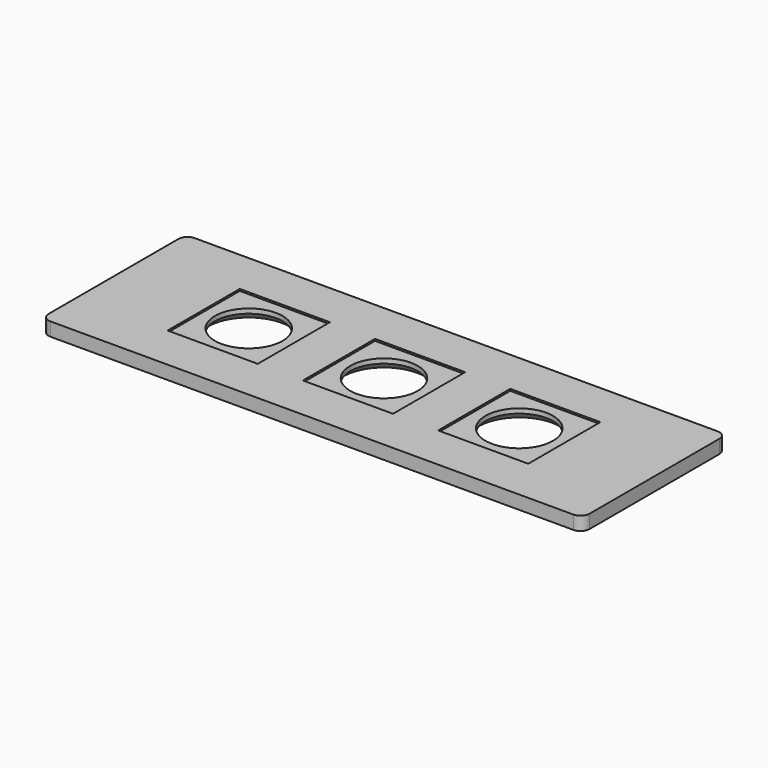
from build123d import *

# Parameters (mm, degrees)
SKETCH_W     = 76.2
SKETCH_H     = 25.4
SKETCH_R     = 4.7625
PAD_DEPTH    = 1.905
CHAMFER_SIZE = 1.000001
SKETCH001_W  = 12.7
SKETCH001_H  = 12.7
POCKET_DEPTH = 0.254
FILLET_R     = 1.27


with BuildPart() as part:
    # Sketch → Pad (new body)
    with BuildSketch(Plane.XY):
        Rectangle(SKETCH_W, SKETCH_H)
        Circle(SKETCH_R, mode=Mode.SUBTRACT)
        with Locations((-19.05, 0)):
            Circle(SKETCH_R, mode=Mode.SUBTRACT)
        with Locations((19.05, 0)):
            Circle(SKETCH_R, mode=Mode.SUBTRACT)
    extrude(amount=PAD_DEPTH)

    # Chamfer
    chamfer_edges = [part.edges().sort_by_distance(p)[0] for p in [
        (14.2875, 0, 0),
        (-4.7625, 0, 0),
        (-23.8125, 0, 0),
    ]]
    chamfer(chamfer_edges, length=CHAMFER_SIZE)

    # Sketch001 (on Face3 of Chamfer) → Pocket (cut)
    with BuildSketch(Plane.XY.offset(1.905)):
        Rectangle(SKETCH001_W, SKETCH001_H)
        with Locations((-19.05, 0)):
            Rectangle(SKETCH001_W, SKETCH001_H)
        with Locations((19.05, 0)):
            Rectangle(SKETCH001_W, SKETCH001_H)
    extrude(amount=-POCKET_DEPTH, mode=Mode.SUBTRACT)

    # Fillet
    fillet_edges = [part.edges().sort_by_distance(p)[0] for p in [
        (38.1, 12.7, 0.9525),
        (38.1, -12.7, 0.9525),
        (-38.1, 12.7, 0.9525),
        (-38.1, -12.7, 0.9525),
    ]]
    fillet(fillet_edges, radius=FILLET_R)


solid = part.part
